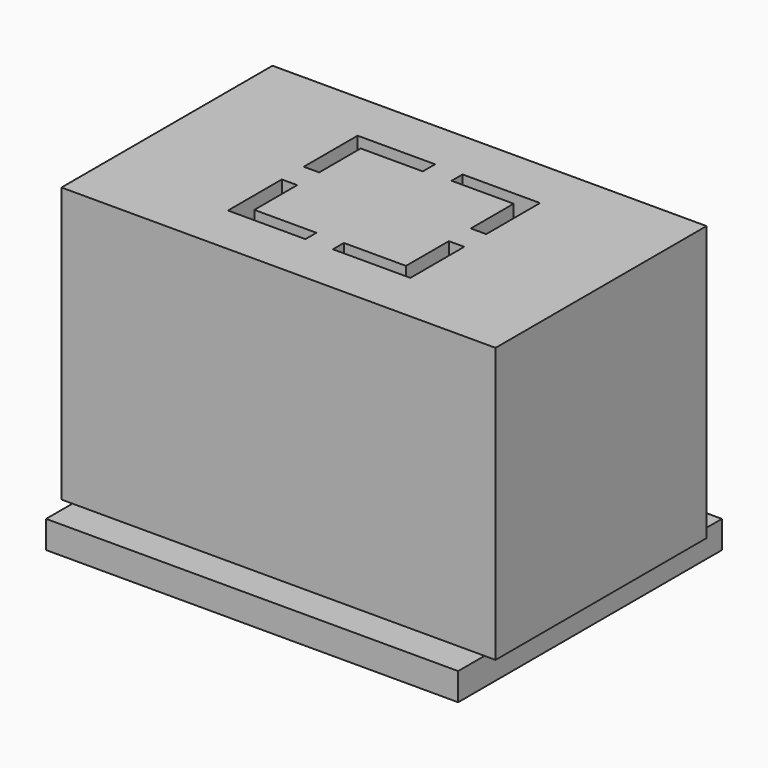
from build123d import *

# Parameters (mm, degrees)
SKETCH_W        = 15.8
SKETCH_H        = 9.6
PAD_DEPTH       = 10
SKETCH002_W     = 15
SKETCH002_H     = 12
PAD001_DEPTH    = 1
SKETCH003_W     = 3
SKETCH003_H     = 6
POCKET_DEPTH    = 9
SKETCH004_W     = 3
SKETCH004_H     = 6
POCKET001_DEPTH = 9
POCKET002_DEPTH = 11.001
POCKET003_DEPTH = 11.001
POCKET004_DEPTH = 11.001
POCKET005_DEPTH = 11.001


with BuildPart() as part:
    # Sketch → Pad (new body)
    with BuildSketch(Plane.XY):
        Rectangle(SKETCH_W, SKETCH_H)
    extrude(amount=PAD_DEPTH)

    # Sketch002 → Pad001 (join)
    with BuildSketch(Plane(origin=(0, 0, 0), x_dir=(1, 0, 0), z_dir=(0, 0, -1))):
        Rectangle(SKETCH002_W, SKETCH002_H)
    extrude(amount=PAD001_DEPTH)

    # Sketch003 → Pocket (cut)
    with BuildSketch(Plane(origin=(0, 0, -2), x_dir=(1, 0, 0), z_dir=(0, 0, -1))):
        with Locations((-2.5, 0)):
            Rectangle(SKETCH003_W, SKETCH003_H)
    extrude(amount=-POCKET_DEPTH, mode=Mode.SUBTRACT)

    # Sketch004 → Pocket001 (cut)
    with BuildSketch(Plane(origin=(0, 0, -2), x_dir=(1, 0, 0), z_dir=(0, 0, -1))):
        with Locations((2.5, 0)):
            Rectangle(SKETCH004_W, SKETCH004_H)
    extrude(amount=-POCKET001_DEPTH, mode=Mode.SUBTRACT)

    # Sketch001 → Pocket002 (cut, through all)
    with BuildSketch(Plane.XY.offset(10)):
        Polygon((3.32, -0.5), (3.32, -2.95), (0.5, -2.95), (0.5, -2.45), (2.76, -2.45), (2.76, -0.5), align=None)
    extrude(amount=-POCKET002_DEPTH, mode=Mode.SUBTRACT)

    # Sketch005 → Pocket003 (cut, through all)
    with BuildSketch(Plane.XY.offset(10)):
        Polygon((-3.32, -0.5), (-3.32, -2.95), (-0.5, -2.95), (-0.5, -2.45), (-2.76, -2.45), (-2.76, -0.5), align=None)
    extrude(amount=-POCKET003_DEPTH, mode=Mode.SUBTRACT)

    # Sketch007 → Pocket004 (cut, through all)
    with BuildSketch(Plane.XY.offset(10)):
        Polygon((-2.76, 0.5), (-3.32, 0.5), (-3.32, 2.95), (-0.5, 2.95), (-0.5, 2.39), (-2.76, 2.39), align=None)
    extrude(amount=-POCKET004_DEPTH, mode=Mode.SUBTRACT)

    # Sketch006 → Pocket005 (cut, through all)
    with BuildSketch(Plane.XY.offset(10)):
        Polygon((0.5, 2.95), (3.32, 2.95), (3.32, 0.5), (2.76, 0.5), (2.76, 2.45), (0.5, 2.45), align=None)
    extrude(amount=-POCKET005_DEPTH, mode=Mode.SUBTRACT)


solid = part.part
